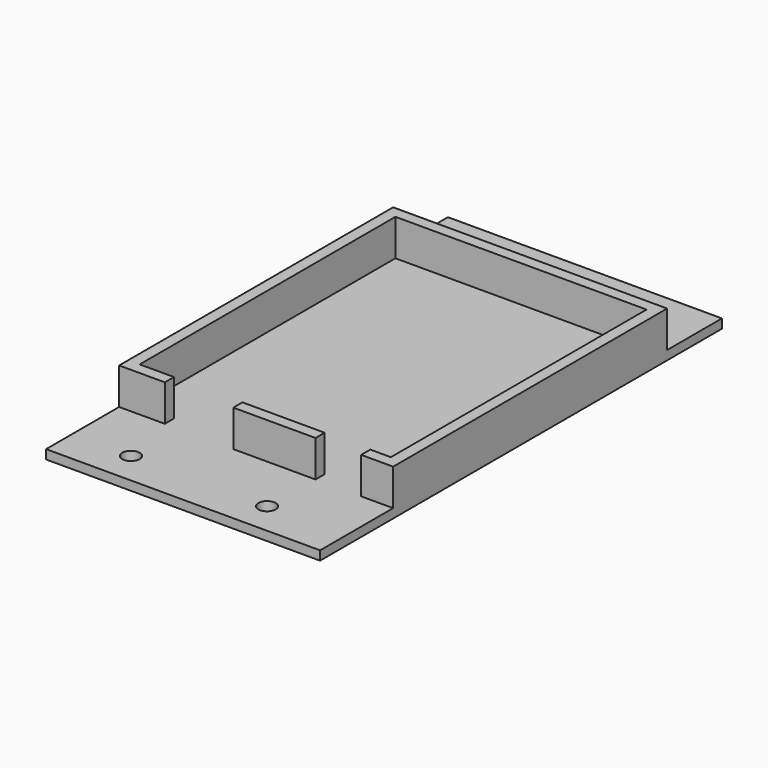
from build123d import *

# Parameters (mm, degrees)
F0_W     = 60
F0_H     = 75
F1_DEPTH = 10
F2_W     = 55
F2_H     = 70
F3_DEPTH = 8
F4_W     = 15
F4_H     = 3.129633
F4_W_2   = 10
F5_DEPTH = 8
F6_W     = 60
F6_H     = 20
F6_R     = 1.905
F7_DEPTH = 2
F8_W     = 60
F8_H     = 15
F8_R     = 1.905
F9_DEPTH = 2


with BuildPart() as f1:
    # F0 (on Top) → F1 (new body)
    with BuildSketch(Plane.XY):
        with Locations((-1.779088, 0.283666)):
            Rectangle(F0_W, F0_H)
    extrude(amount=F1_DEPTH)

    # F2 (on face) → F3 (cut)
    with BuildSketch(Plane.XY.offset(10)):
        with Locations((-1.779088, 0.283666)):
            Rectangle(F2_W, F2_H)
    extrude(amount=-F3_DEPTH, mode=Mode.SUBTRACT)

    # F4 (on face) → F5 (cut)
    with BuildSketch(Plane.XY.offset(2)):
        with Locations((-14.279088, -36.044677)):
            Rectangle(F4_W, F4_H)
        with Locations((16.220912, -36.044677)):
            Rectangle(F4_W_2, F4_H)
    extrude(amount=F5_DEPTH, mode=Mode.SUBTRACT)

    # F6 (on Top) → F7 (join)
    with BuildSketch(Plane.XY):
        with Locations((-1.779088, -47.216334)):
            Rectangle(F6_W, F6_H)
        with Locations((-18.874088, -50.121334)):
            Circle(F6_R, mode=Mode.SUBTRACT)
        with Locations((10.935912, -50.121334)):
            Circle(F6_R, mode=Mode.SUBTRACT)
    extrude(amount=F7_DEPTH)

    # F8 (on Top) → F9 (join)
    with BuildSketch(Plane.XY):
        with Locations((-1.779088, 45.283666)):
            Rectangle(F8_W, F8_H)
        with Locations((-12.374088, 47.688666)):
            Circle(F8_R, mode=Mode.SUBTRACT)
    extrude(amount=F9_DEPTH)


solid = f1.part
